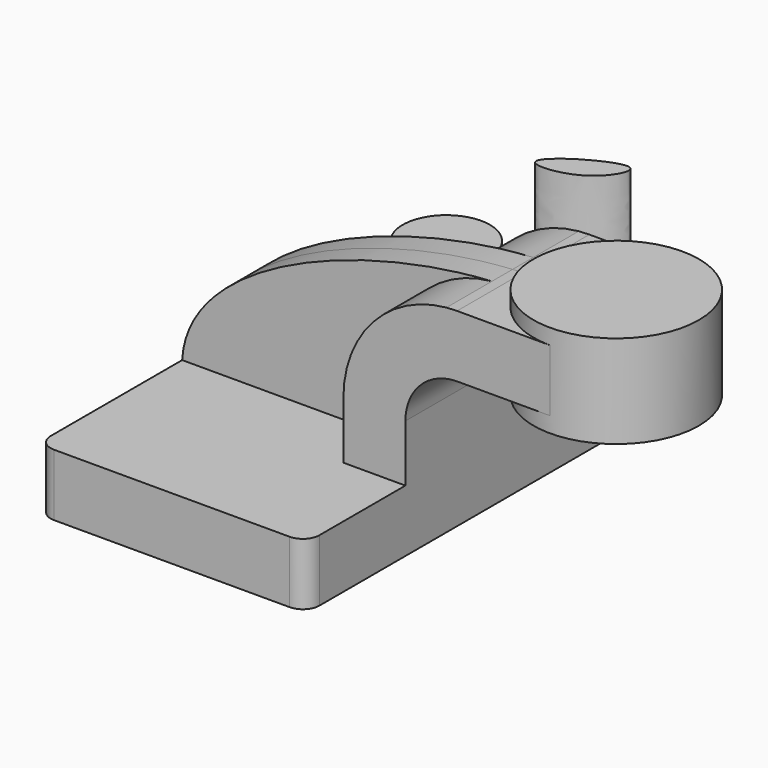
from build123d import *

# Parameters (mm, degrees)
F1_DEPTH = 63.5
F0_W     = 25.4
F0_H     = 19.05
F2_DEPTH = 25.4
F3_DEPTH = 7.9375
F5_R     = 5.08
F6_R     = 13.3848076757
F7_DEPTH = 25.4
F9_DEPTH = 25.4


with BuildPart() as f1:
    # F0 (on Front) → F1 (new body, symmetric)
    with BuildSketch(Plane.XZ):
        Polygon((22.225, 9.525), (-41.275, 9.525), (-41.275, -9.525), (41.275, -9.525), (41.275, 9.525), align=None)
    extrude(amount=F1_DEPTH, both=True)

    # F0 (on Front) → F2 (join, symmetric)
    with BuildSketch(Plane.XZ):
        with BuildLine():
            Line((22.225, 27.0002), (22.225, 9.525))
            Line((22.225, 9.525), (41.275, 9.525))
            Line((41.275, 9.525), (41.275, 27.0002))
            ThreePointArc((41.275, 27.0002), (45.9246798487, 38.2255201513), (57.15, 42.8752))
            Line((57.15, 42.8752), (60.325, 42.8752))
            Line((60.325, 42.8752), (60.325, 61.9252))
            Line((60.325, 61.9252), (57.15, 61.9252))
            add(Edge.make_bspline(
                [(53.8854342407, 61.7722898912), (54.9842067368, 61.8365871986), (56.0728453275, 61.8876096574), (57.15, 61.9252)],
                knots=[108.5245810491, 108.5245810491, 108.5245810491, 108.5245810491, 111.5045361635, 111.5045361635, 111.5045361635, 111.5045361635], degree=3))
            ThreePointArc((53.8854342407, 61.7722898912), (31.3258777096, 50.5133948686), (22.225, 27.0002))
        make_face()
        with Locations((73.025, 52.4002)):
            Rectangle(F0_W, F0_H)
    extrude(amount=F2_DEPTH, both=True)

    # F0 (on Front) → F3 (join, symmetric)
    with BuildSketch(Plane.XZ):
        with BuildLine():
            add(Edge.make_bspline(
                [(-41.275, 9.525), (-39.5856284224, 39.4828766469), (13.870125209, 59.4306981306), (53.8854342407, 61.7722898912)],
                knots=[0, 0, 0, 0, 108.5245810491, 108.5245810491, 108.5245810491, 108.5245810491], degree=3))
            Line((-41.275, 9.525), (22.225, 9.525))
            Line((22.225, 9.525), (22.225, 27.0002))
            ThreePointArc((22.225, 27.0002), (31.3258777096, 50.5133948686), (53.8854342407, 61.7722898912))
        make_face()
    extrude(amount=F3_DEPTH, both=True)

    # F0 (on Front) → F4 (revolve)
    with BuildSketch(Plane.XZ):
        Polygon((85.725, 66.675), (85.725, 61.9252), (85.725, 42.8752), (85.725, 38.1), (111.125, 38.1), (111.125, 66.675), align=None)
    revolve(axis=Axis((85.725, 0, 52.3875), (0, 0, 1)))

    # F5
    f5_edges = [f1.edges().sort_by_distance(p)[0] for p in [
        (41.275, -63.5, 0),
        (-41.275, -63.5, 0),
        (41.275, 63.5, 0),
        (-41.275, 63.5, 0),
    ]]
    fillet(f5_edges, radius=F5_R)

    # F6 (on face) → F7 (join)
    with BuildSketch(Plane.XY.offset(9.525)):
        with Locations((0, 41.91)):
            Circle(F6_R)
    extrude(amount=F7_DEPTH)


with BuildPart() as f9:
    # F8 (on face) → F9 (new body)
    with BuildSketch(Plane.XY.offset(34.925)):
        with BuildLine():
            add(Edge.make_bspline(
                [(35.8107239008, 51.4635331929), (40.2882412217, 54.4595776927), (46.1000341359, 65.5796739077), (26.0855056173, 56.2935634555), (17.5143971726, 46.7277456655), (30.6819711164, 48.0317270223), (35.8107239008, 51.4635331929)],
                knots=[0, 0, 0, 0, 0.2378556996, 0.5245776017, 0.7275492211, 1, 1, 1, 1], degree=3))
        make_face()
    extrude(amount=F9_DEPTH)


solid = Compound([f1.part, f9.part])
